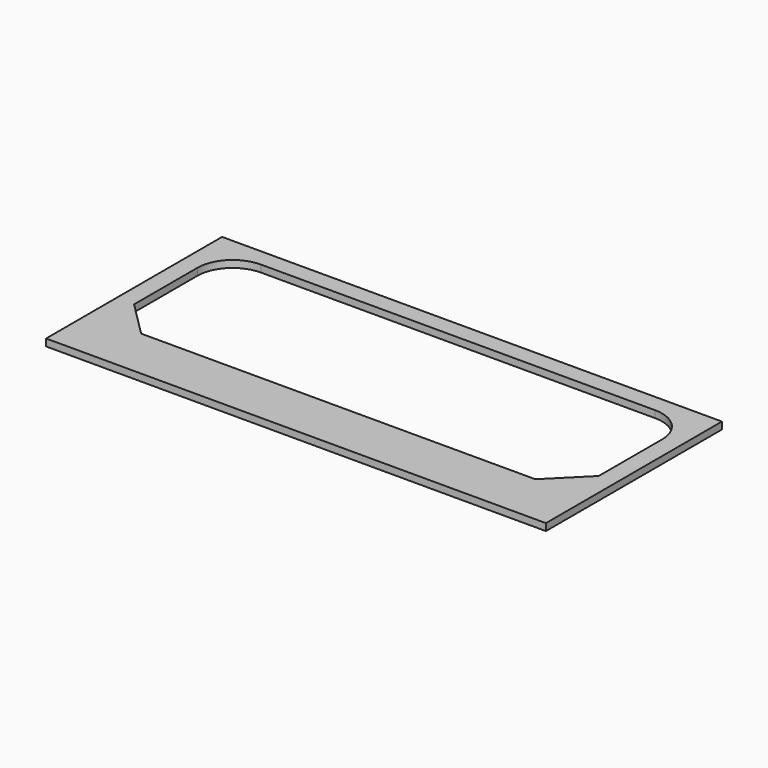
from build123d import *

# Parameters (mm, degrees)
F1_DEPTH = 1.016
F2_R     = 5.08
F3_SIZE  = 5.08


with BuildPart() as f1:
    # F0 (on Top) → F1 (new body)
    with BuildSketch(Plane.XY):
        Polygon((57.084747, -19.829684), (57.084747, -12.209684), (54.544747, -12.209684), (-12.511253, -12.209684), (-15.051253, -12.209684), (-15.051253, -19.829684), align=None)
        Polygon((57.084747, -12.209684), (57.084747, 11.920316), (-15.051253, 11.920316), (-15.051253, -12.209684), (-12.511253, -12.209684), (-12.511253, 9.380316), (54.544747, 9.380316), (54.544747, -12.209684), align=None)
    extrude(amount=F1_DEPTH)

    # F2
    f2_edges = [f1.edges().sort_by_distance(p)[0] for p in [
        (-12.511253, 9.380316, 0.508),
        (54.544747, 9.380316, 0.508),
    ]]
    fillet(f2_edges, radius=F2_R)

    # F3
    f3_edges = [f1.edges().sort_by_distance(p)[0] for p in [
        (-12.511253, -12.209684, 0.508),
        (54.544747, -12.209684, 0.508),
    ]]
    chamfer(f3_edges, length=F3_SIZE)


solid = f1.part
